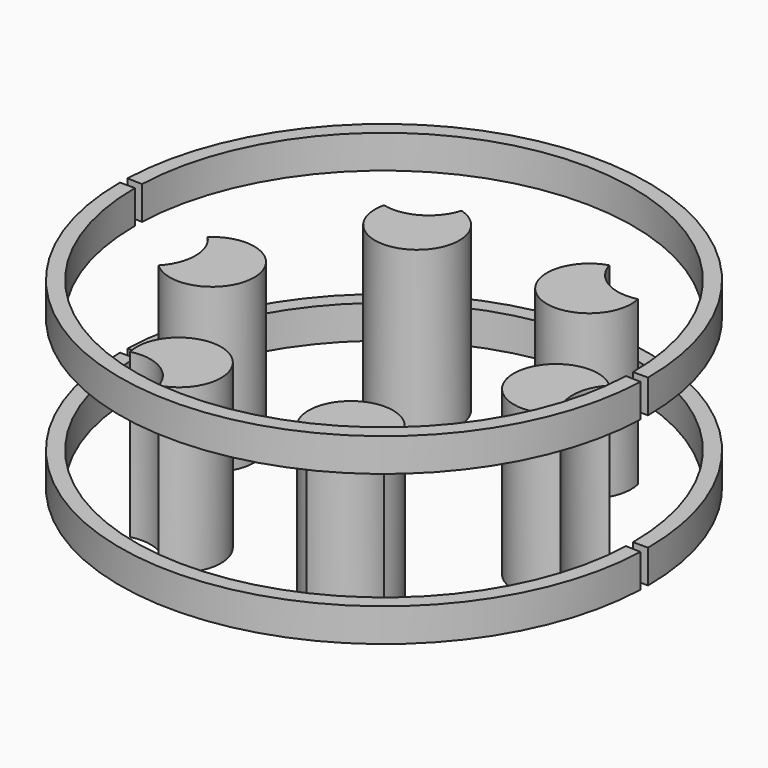
from build123d import *

# Parameters (mm, degrees)
CYLINDER081_R          = 22.45
CYLINDER081_DEPTH      = 17
CYLINDER080_W          = 23.8
CYLINDER080_H          = 3
CYLINDER080_ANGLE      = 178
CUT037_PLACEMENT_ANGLE = 180
CYLINDER079_R          = 22.45
CYLINDER079_DEPTH      = 17
CYLINDER078_W          = 23.8
CYLINDER078_H          = 3
CYLINDER078_ANGLE      = 178
CUT036_PLACEMENT_ANGLE = 180
CYLINDER092_R          = 4
CYLINDER092_DEPTH      = 15
CYLINDER091_R          = 3.8
CYLINDER091_DEPTH      = 14.7
CUT054_PLACEMENT_ANGLE = 240
CYLINDER094_R          = 4
CYLINDER094_DEPTH      = 15
CYLINDER093_R          = 3.8
CYLINDER093_DEPTH      = 14.7
CUT055_PLACEMENT_ANGLE = -60
CYLINDER090_R          = 4
CYLINDER090_DEPTH      = 15
CYLINDER089_R          = 3.8
CYLINDER089_DEPTH      = 14.7
CUT053_PLACEMENT_ANGLE = 180
CYLINDER088_R          = 4
CYLINDER088_DEPTH      = 15
CYLINDER087_R          = 3.8
CYLINDER087_DEPTH      = 14.7
CUT052_PLACEMENT_ANGLE = 120
CYLINDER096_R          = 4
CYLINDER096_DEPTH      = 15
CYLINDER095_R          = 3.8
CYLINDER095_DEPTH      = 14.7
CYLINDER086_R          = 4
CYLINDER086_DEPTH      = 15
CYLINDER085_R          = 3.8
CYLINDER085_DEPTH      = 14.7
CUT051_PLACEMENT_ANGLE = 60


with BuildPart() as cylinder081:
    # Cylinder081 → Cylinder081 (new body)
    with BuildSketch(Plane.XY):
        Circle(CYLINDER081_R)
    extrude(amount=CYLINDER081_DEPTH)


with BuildPart() as cylinder080:
    # Cylinder080 → Cylinder080 (revolve)
    with BuildSketch(Plane(origin=(0, 0, 1.8), x_dir=(1, 0, 0), z_dir=(0, -1, 0))):
        with Locations((11.9, 1.5)):
            Rectangle(CYLINDER080_W, CYLINDER080_H)
    revolve(axis=Axis((0, 0, 1.8), (0, 0, 1)), revolution_arc=CYLINDER080_ANGLE)


with BuildPart() as cut037:
    # Cut037 base: copy of Cylinder080
    add(cylinder080.part)

    # Cut037: cut Cylinder081
    add(cylinder081.part, mode=Mode.SUBTRACT)


with BuildPart() as cut037_1:
    # Cut037 placement: moved
    add(cut037.part.rotate(Axis((0, 0, 0), (0, 0, 1)), CUT037_PLACEMENT_ANGLE))


with BuildPart() as cylinder079:
    # Cylinder079 → Cylinder079 (new body)
    with BuildSketch(Plane.XY):
        Circle(CYLINDER079_R)
    extrude(amount=CYLINDER079_DEPTH)


with BuildPart() as cylinder078:
    # Cylinder078 → Cylinder078 (revolve)
    with BuildSketch(Plane(origin=(0, 0, 1.8), x_dir=(1, 0, 0), z_dir=(0, -1, 0))):
        with Locations((11.9, 1.5)):
            Rectangle(CYLINDER078_W, CYLINDER078_H)
    revolve(axis=Axis((0, 0, 1.8), (0, 0, 1)), revolution_arc=CYLINDER078_ANGLE)


with BuildPart() as fusion033:
    # Cut038 base: copy of Cylinder078
    add(cylinder078.part)

    # Cut038: cut Cylinder079
    add(cylinder079.part, mode=Mode.SUBTRACT)

    # Fusion033: union Cut037
    add(cut037_1.part)


with BuildPart() as cut036:
    # Cut036 base: copy of Cylinder080
    add(cylinder080.part)

    # Cut036: cut Cylinder081
    add(cylinder081.part, mode=Mode.SUBTRACT)


with BuildPart() as cut036_1:
    # Cut036 placement: moved
    add(cut036.part.rotate(Axis((0, 0, 0), (0, 0, 1)), CUT036_PLACEMENT_ANGLE))


with BuildPart() as fusion034:
    # Cut035 base: copy of Cylinder078
    add(cylinder078.part)

    # Cut035: cut Cylinder079
    add(cylinder079.part, mode=Mode.SUBTRACT)

    # Fusion032: union Cut036
    add(cut036_1.part)


with BuildPart() as fusion034_1:
    # Fusion032 placement: moved
    add(fusion034.part.moved(Location((0, 0, 13.5))))

    # Fusion034: union Fusion033
    add(fusion033.part)


with BuildPart() as cylinder092:
    # Cylinder092 → Cylinder092 (new body)
    with BuildSketch(Plane(origin=(21, 0, 0), x_dir=(1, 0, 0), z_dir=(0, 0, 1))):
        Circle(CYLINDER092_R)
    extrude(amount=CYLINDER092_DEPTH)


with BuildPart() as cut054:
    # Cylinder091 → Cylinder091 (new body)
    with BuildSketch(Plane(origin=(15.5, 0, 0), x_dir=(1, 0, 0), z_dir=(0, 0, 1))):
        Circle(CYLINDER091_R)
    extrude(amount=CYLINDER091_DEPTH)

    # Cut054: cut Cylinder092
    add(cylinder092.part, mode=Mode.SUBTRACT)


with BuildPart() as cut054_1:
    # Cut054 placement: moved
    add(cut054.part.rotate(Axis((0, 0, 0), (0, 0, 1)), CUT054_PLACEMENT_ANGLE))


with BuildPart() as cylinder094:
    # Cylinder094 → Cylinder094 (new body)
    with BuildSketch(Plane(origin=(21, 0, 0), x_dir=(1, 0, 0), z_dir=(0, 0, 1))):
        Circle(CYLINDER094_R)
    extrude(amount=CYLINDER094_DEPTH)


with BuildPart() as cut055:
    # Cylinder093 → Cylinder093 (new body)
    with BuildSketch(Plane(origin=(15.5, 0, 0), x_dir=(1, 0, 0), z_dir=(0, 0, 1))):
        Circle(CYLINDER093_R)
    extrude(amount=CYLINDER093_DEPTH)

    # Cut055: cut Cylinder094
    add(cylinder094.part, mode=Mode.SUBTRACT)


with BuildPart() as cut055_1:
    # Cut055 placement: moved
    add(cut055.part.rotate(Axis((0, 0, 0), (0, 0, 1)), CUT055_PLACEMENT_ANGLE))


with BuildPart() as cylinder090:
    # Cylinder090 → Cylinder090 (new body)
    with BuildSketch(Plane(origin=(21, 0, 0), x_dir=(1, 0, 0), z_dir=(0, 0, 1))):
        Circle(CYLINDER090_R)
    extrude(amount=CYLINDER090_DEPTH)


with BuildPart() as cut053:
    # Cylinder089 → Cylinder089 (new body)
    with BuildSketch(Plane(origin=(15.5, 0, 0), x_dir=(1, 0, 0), z_dir=(0, 0, 1))):
        Circle(CYLINDER089_R)
    extrude(amount=CYLINDER089_DEPTH)

    # Cut053: cut Cylinder090
    add(cylinder090.part, mode=Mode.SUBTRACT)


with BuildPart() as cut053_1:
    # Cut053 placement: moved
    add(cut053.part.rotate(Axis((0, 0, 0), (0, 0, 1)), CUT053_PLACEMENT_ANGLE))


with BuildPart() as cylinder088:
    # Cylinder088 → Cylinder088 (new body)
    with BuildSketch(Plane(origin=(21, 0, 0), x_dir=(1, 0, 0), z_dir=(0, 0, 1))):
        Circle(CYLINDER088_R)
    extrude(amount=CYLINDER088_DEPTH)


with BuildPart() as cut052:
    # Cylinder087 → Cylinder087 (new body)
    with BuildSketch(Plane(origin=(15.5, 0, 0), x_dir=(1, 0, 0), z_dir=(0, 0, 1))):
        Circle(CYLINDER087_R)
    extrude(amount=CYLINDER087_DEPTH)

    # Cut052: cut Cylinder088
    add(cylinder088.part, mode=Mode.SUBTRACT)


with BuildPart() as cut052_1:
    # Cut052 placement: moved
    add(cut052.part.rotate(Axis((0, 0, 0), (0, 0, 1)), CUT052_PLACEMENT_ANGLE))


with BuildPart() as cylinder096:
    # Cylinder096 → Cylinder096 (new body)
    with BuildSketch(Plane(origin=(21, 0, 0), x_dir=(1, 0, 0), z_dir=(0, 0, 1))):
        Circle(CYLINDER096_R)
    extrude(amount=CYLINDER096_DEPTH)


with BuildPart() as cut056:
    # Cylinder095 → Cylinder095 (new body)
    with BuildSketch(Plane(origin=(15.5, 0, 0), x_dir=(1, 0, 0), z_dir=(0, 0, 1))):
        Circle(CYLINDER095_R)
    extrude(amount=CYLINDER095_DEPTH)

    # Cut056: cut Cylinder096
    add(cylinder096.part, mode=Mode.SUBTRACT)


with BuildPart() as cylinder086:
    # Cylinder086 → Cylinder086 (new body)
    with BuildSketch(Plane(origin=(21, 0, 0), x_dir=(1, 0, 0), z_dir=(0, 0, 1))):
        Circle(CYLINDER086_R)
    extrude(amount=CYLINDER086_DEPTH)


with BuildPart() as rim_front_support:
    # Cylinder085 → Cylinder085 (new body)
    with BuildSketch(Plane(origin=(15.5, 0, 0), x_dir=(1, 0, 0), z_dir=(0, 0, 1))):
        Circle(CYLINDER085_R)
    extrude(amount=CYLINDER085_DEPTH)

    # Cut051: cut Cylinder086
    add(cylinder086.part, mode=Mode.SUBTRACT)


with BuildPart() as rim_front_support_1:
    # Cut051 placement: moved
    add(rim_front_support.part.rotate(Axis((0, 0, 0), (0, 0, 1)), CUT051_PLACEMENT_ANGLE))

    # Fusion038: union Cut054, Cut055, Cut053, Cut052, Cut056
    add(cut054_1.part)
    add(cut055_1.part)
    add(cut053_1.part)
    add(cut052_1.part)
    add(cut056.part)

    # Fusion039: union Fusion034
    add(fusion034_1.part)


solid = rim_front_support_1.part
